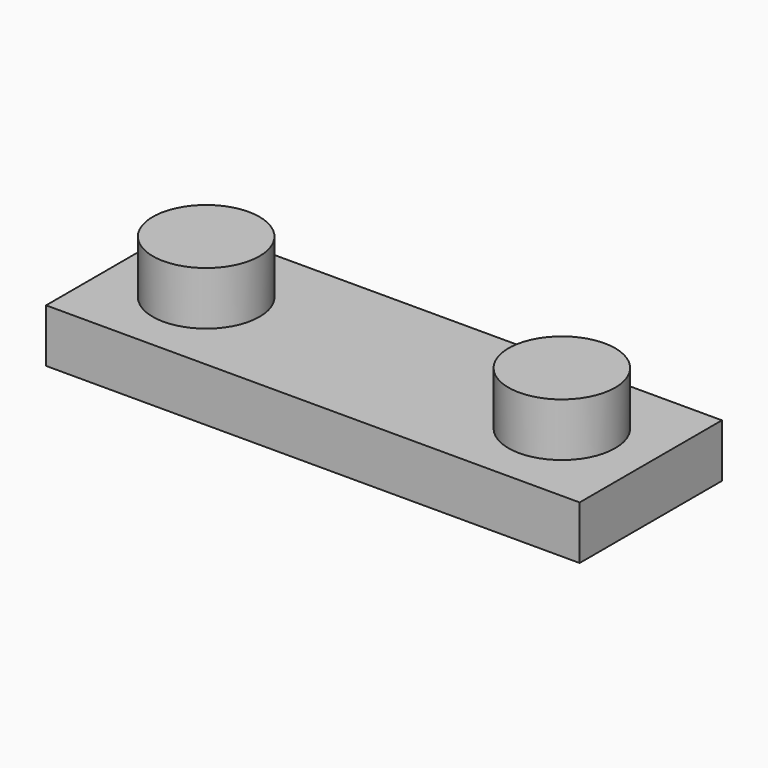
from build123d import *

# Parameters (mm, degrees)
F0_W     = 30
F0_H     = 10
F0_R     = 3
F1_DEPTH = 3
F2_DEPTH = 6


with BuildPart() as f1:
    # F0 (on Top) → F1 (new body)
    with BuildSketch(Plane.XY):
        Rectangle(F0_W, F0_H)
        with Locations((-10, 0)):
            Circle(F0_R, mode=Mode.SUBTRACT)
        with Locations((10, 0)):
            Circle(F0_R, mode=Mode.SUBTRACT)
        with Locations((10, 0)):
            Circle(F0_R)
        with Locations((-10, 0)):
            Circle(F0_R)
    extrude(amount=F1_DEPTH)

    # F0 (on Top) → F2 (join)
    with BuildSketch(Plane.XY):
        with Locations((-10, 0)):
            Circle(F0_R)
        with Locations((10, 0)):
            Circle(F0_R)
    extrude(amount=F2_DEPTH)


solid = f1.part
